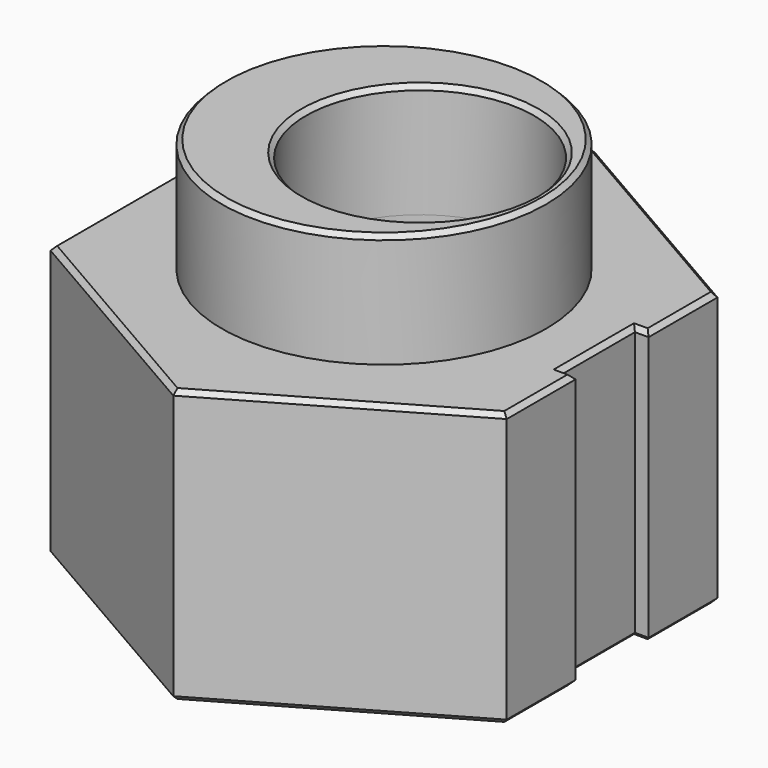
from build123d import *

# Parameters (mm, degrees)
F1_DEPTH = 6
F2_R     = 3.555
F2_R_2   = 2.5
F3_DEPTH = 2.5
F4_W     = 0.3
F4_H     = 2
F5_DEPTH = 25
F6_R     = 2.5
F7_DEPTH = 25
F8_SIZE  = 0.1


with BuildPart() as f1:
    # F0 (on Top) → F1 (new body)
    with BuildSketch(Plane.XY):
        Polygon((5, -2.886751), (5, 2.886751), (0, 5.773503), (-5, 2.886751), (-5, -2.886751), (0, -5.773503), align=None)
    extrude(amount=F1_DEPTH)

    # F2 (on face) → F3 (join)
    with BuildSketch(Plane.XY.offset(6)):
        Circle(F2_R)
        with Locations((0.79, 0)):
            Circle(F2_R_2, mode=Mode.SUBTRACT)
    extrude(amount=F3_DEPTH)

    # F4 (on face) → F5 (cut)
    with BuildSketch(Plane.XY.offset(6)):
        with Locations((4.85, 0)):
            Rectangle(F4_W, F4_H)
    extrude(amount=-F5_DEPTH, mode=Mode.SUBTRACT)

    # F6 (on face) → F7 (cut)
    with BuildSketch(Plane.XY.offset(6)):
        with Locations((0.79, 0)):
            Circle(F6_R)
    extrude(amount=-F7_DEPTH, mode=Mode.SUBTRACT)

    # F8
    f8_edges = [f1.edges().sort_by_distance(p)[0] for p in [
        (-2.5, -4.330127, 6),
        (2.5, -4.330127, 6),
        (5, -1.943376, 6),
        (5, 1.943376, 6),
        (4.7, 0, 6),
        (4.85, -1, 6),
        (4.85, 1, 6),
        (2.5, 4.330127, 6),
        (-2.5, 4.330127, 6),
        (-5, 0, 6),
        (-3.555, 0, 8.5),
        (-1.71, 0, 8.5),
        (2.5, -4.330127, 0),
        (-2.5, -4.330127, 0),
        (5, -1.943376, 0),
        (-5, 0, 0),
        (4.85, -1, 0),
        (-2.5, 4.330127, 0),
        (4.7, 0, 0),
        (2.5, 4.330127, 0),
        (4.85, 1, 0),
        (5, 1.943376, 0),
        (-1.71, 0, 0),
    ]]
    chamfer(f8_edges, length=F8_SIZE)


solid = f1.part
